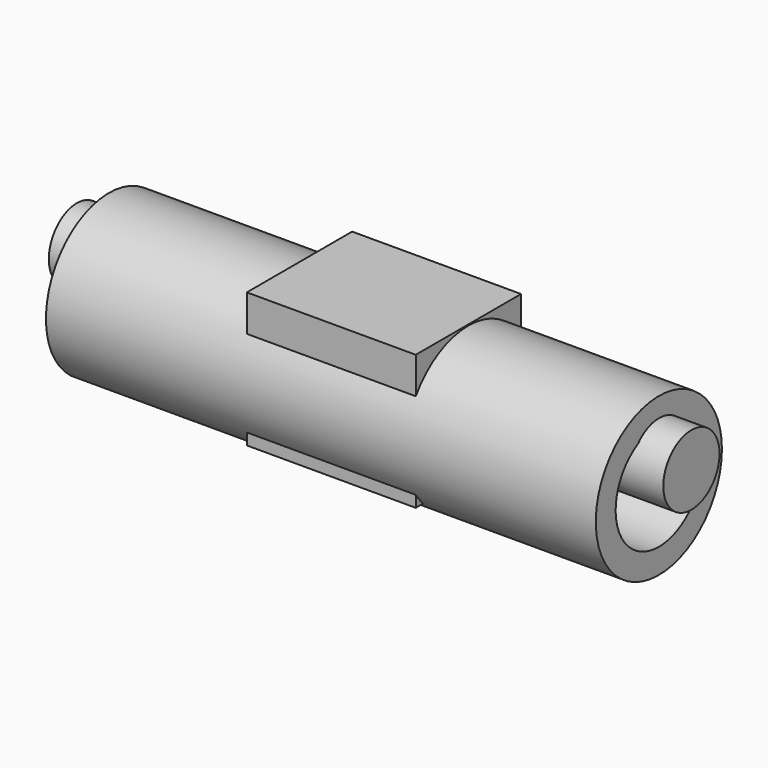
from build123d import *

# Parameters (mm, degrees)
F0_W     = 31.838607043
F0_H     = 24.8093027622
F1_DEPTH = 25.4
F2_R     = 6.6170085052
F3_DEPTH = 40.64
F4_DEPTH = 17.272
F5_R     = 14.8582779771
F5_R_2   = 10.1809706262
F6_DEPTH = 51.816


with BuildPart() as f1:
    # F0 (on Top) → F1 (new body)
    with BuildSketch(Plane.XY):
        Rectangle(F0_W, F0_H)
    extrude(amount=F1_DEPTH)

    # F2 (on Right) → F3 (join, symmetric)
    with BuildSketch(Plane.YZ):
        with Locations((0.0505595074, 14.8865826207)):
            Circle(F2_R)
    extrude(amount=F3_DEPTH, both=True)

    # F4 (add, symmetric): faces of the model
    f4_faces = [f1.faces().sort_by_distance(p)[0] for p in [
        (-40.64, 0.0505595074, 14.8865826207),
        (40.64, 0.0505595074, 14.8865826207),
    ]]
    extrude(f4_faces, amount=F4_DEPTH, both=True, dir=(-1, 0, 0))

    # F5 (on Right) → F6 (join, symmetric)
    with BuildSketch(Plane.YZ):
        with Locations((0, 10.337209329)):
            Circle(F5_R)
        with Locations((0, 10.337209329)):
            Circle(F5_R_2, mode=Mode.SUBTRACT)
    extrude(amount=F6_DEPTH, both=True)


solid = f1.part
